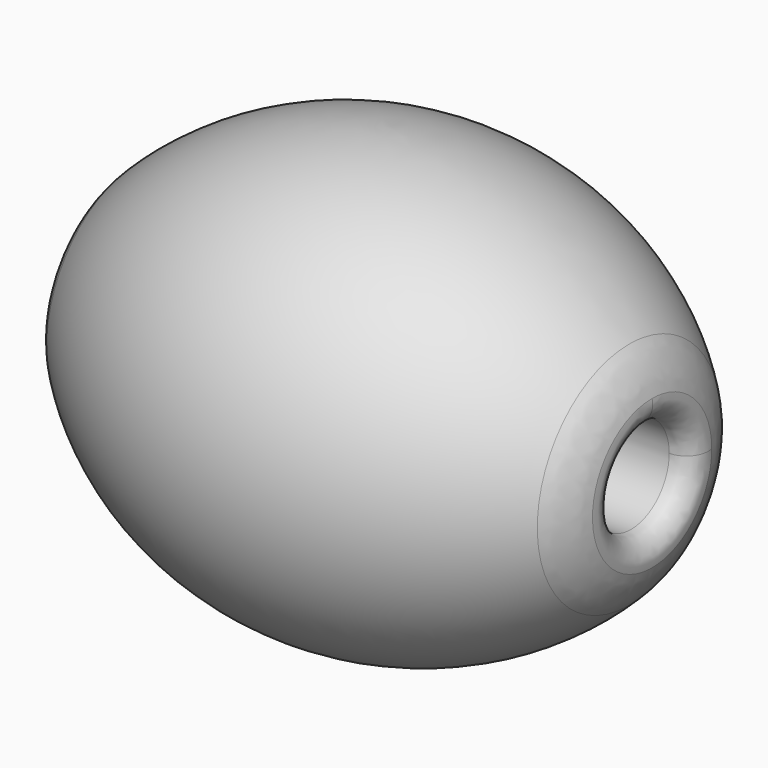
from build123d import *

# Parameters (mm, degrees)
F2_R     = 10
F3_R     = 5.5
F4_DEPTH = 100
F5_R     = 2.5


with BuildPart() as f1:
    # F0 (on Front) → F1 (revolve)
    with BuildSketch(Plane.XZ):
        with BuildLine():
            Line((31.224989992, 0), (31.224989992, 10))
            ThreePointArc((31.224989992, 10), (0, 25), (-31.224989992, 10))
            Line((-31.224989992, 10), (-31.224989992, 0))
            Line((-31.224989992, 0), (0, 0))
            Line((0, 0), (31.224989992, 0))
        make_face()
    revolve(axis=Axis((-15.612494996, 0, 0), (1, 0, 0)))

    # F2
    f2_edges = [f1.edges().sort_by_distance(p)[0] for p in [
        (-31.22499, 0, -10),
        (31.22499, 0, -10),
    ]]
    fillet(f2_edges, radius=F2_R)

    # F3 (on Right) → F4 (cut, symmetric)
    with BuildSketch(Plane.YZ):
        Circle(F3_R)
    extrude(amount=F4_DEPTH, both=True, mode=Mode.SUBTRACT)

    # F5
    f5_edges = [f1.edges().sort_by_distance(p)[0] for p in [
        (-31.22499, -5.5, 0),
        (31.22499, -5.5, 0),
    ]]
    fillet(f5_edges, radius=F5_R)


solid = f1.part
